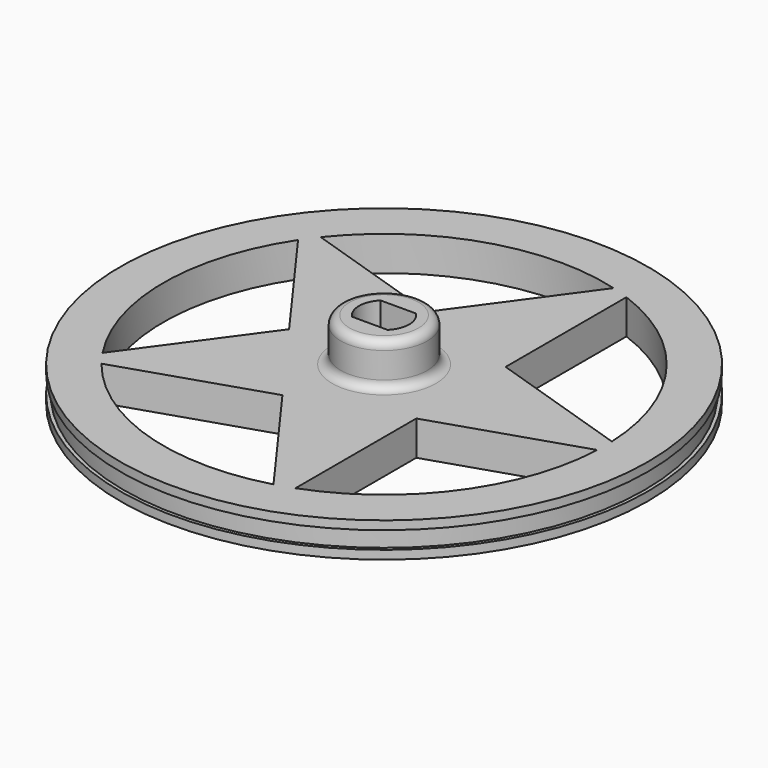
from build123d import *

# Parameters (mm, degrees)
F0_R      = 30.5
F1_DEPTH  = 4
F3_R      = 30.5
F3_R_2    = 30.1
F4_DEPTH  = 2
F5_R      = 5
F6_DEPTH  = 5
F8_DEPTH  = 8
F10_DEPTH = 25
F11_R     = 1


with BuildPart() as f1:
    # F0 (on Top) → F1 (new body)
    with BuildSketch(Plane.XY):
        Circle(F0_R)
    extrude(amount=F1_DEPTH)

    # F3 (on offset) → F4 (cut)
    with BuildSketch(Plane.XY.offset(1)):
        Circle(F3_R)
        Circle(F3_R_2, mode=Mode.SUBTRACT)
    extrude(amount=F4_DEPTH, mode=Mode.SUBTRACT)

    # F5 (on face) → F6 (join)
    with BuildSketch(Plane.XY.offset(4)):
        Circle(F5_R)
    extrude(amount=F6_DEPTH)

    # F7 (on face) → F8 (cut, through all)
    with BuildSketch(Plane.XY.offset(9)):
        with BuildLine():
            Line((2.0512191497, 2.05), (-2.0512191497, 2.05))
            ThreePointArc((-2.0512191497, 2.05), (-2.9, 0), (-2.0512191497, -2.05))
            Line((-2.0512191497, -2.05), (2.0512191497, -2.05))
            ThreePointArc((2.0512191497, -2.05), (2.9, 0), (2.0512191497, 2.05))
        make_face()
    extrude(amount=-F8_DEPTH, mode=Mode.SUBTRACT)

    # F9 (on face) → F10 (cut)
    with BuildSketch(Plane.XY.offset(4)):
        with BuildLine():
            Line((-3.3918327244, 10.4389877367), (6.8663471811, 24.5581610954))
            ThreePointArc((6.8663471811, 24.5581610954), (-7.8799333566, 24.2519411655), (-19.9899164741, 15.8320320667))
            Line((-19.9899164741, 15.8320320667), (-3.3918327244, 10.4389877367))
        make_face()
        with BuildLine():
            Line((8.8799333566, 6.4516492294), (25.4780171063, 1.0586048994))
            ThreePointArc((25.4780171063, 1.0586048994), (20.6299333566, 14.9885239335), (8.8799333566, 23.9039072869))
            Line((8.8799333566, 23.9039072869), (8.8799333566, 6.4516492294))
        make_face()
        with BuildLine():
            ThreePointArc((8.8799333566, -23.9039072869), (20.6299333566, -14.9885239335), (25.4780171063, -1.0586048994))
            Line((25.4780171063, -1.0586048994), (8.8799333566, -6.4516492294))
            Line((8.8799333566, -6.4516492294), (8.8799333566, -23.9039072869))
        make_face()
        with BuildLine():
            ThreePointArc((-19.9899164741, -15.8320320667), (-7.8799333566, -24.2519411655), (6.8663471811, -24.5581610954))
            Line((6.8663471811, -24.5581610954), (-3.3918327244, -10.4389877367))
            Line((-3.3918327244, -10.4389877367), (-19.9899164741, -15.8320320667))
        make_face()
        with BuildLine():
            Line((-10.9762012644, 0), (-21.2343811698, 14.1191733588))
            ThreePointArc((-21.2343811698, 14.1191733588), (-25.5, 0), (-21.2343811698, -14.1191733588))
            Line((-21.2343811698, -14.1191733588), (-10.9762012644, 0))
        make_face()
    extrude(amount=-F10_DEPTH, mode=Mode.SUBTRACT)

    # F11
    f11_edges = [f1.edges().sort_by_distance(p)[0] for p in [
        (-5, 0, 9),
        (-5, 0, 4),
    ]]
    fillet(f11_edges, radius=F11_R)


solid = f1.part
